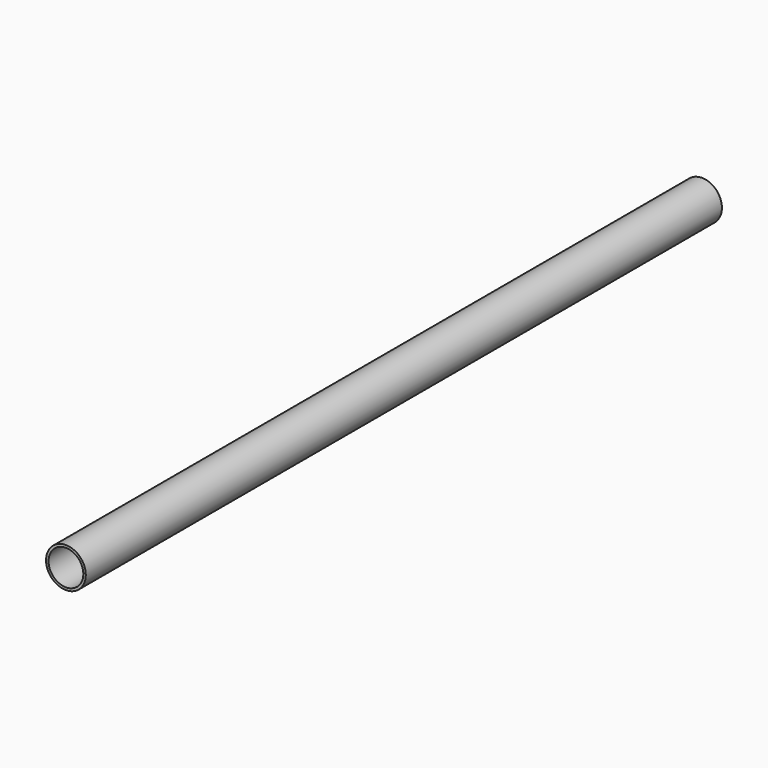
from build123d import *

# Parameters (mm, degrees)
F0_R     = 25.4032998263
F1_DEPTH = 1016
F2_T     = -3.175
F3_T     = -2.54


with BuildPart() as f1:
    # F0 (on Front) → F1 (new body)
    with BuildSketch(Plane.XZ):
        Circle(F0_R)
    extrude(amount=F1_DEPTH)

    # F2
    f2_openings = [f1.faces().sort_by_distance(p)[0] for p in [
        (0, -1016, 0),
    ]]
    offset(amount=F2_T, openings=f2_openings)

    # F3
    f3_openings = [f1.faces().sort_by_distance(p)[0] for p in [
        (0, 0, 0),
    ]]
    offset(amount=F3_T, openings=f3_openings, kind=Kind.INTERSECTION)


solid = f1.part
